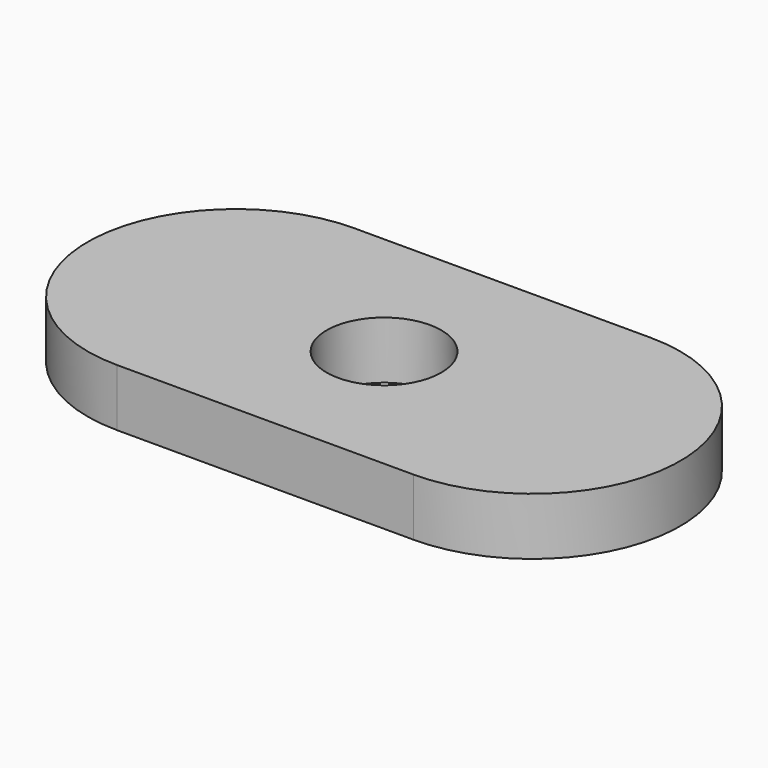
from build123d import *

# Parameters (mm, degrees)
F0_R     = 3
F1_DEPTH = 3
F2_R     = 3
F3_DEPTH = 25


with BuildPart() as f1:
    # F0 (on Top) → F1 (new body)
    with BuildSketch(Plane.XY):
        with BuildLine():
            Line((7.75, 7.75), (-7.75, 7.75))
            ThreePointArc((-7.75, 7.75), (-15.5, 0), (-7.75, -7.75))
            Line((-7.75, -7.75), (7.75, -7.75))
            ThreePointArc((7.75, -7.75), (15.5, 0), (7.75, 7.75))
        make_face()
        Circle(F0_R, mode=Mode.SUBTRACT)
        Circle(F0_R)
    extrude(amount=F1_DEPTH)

    # F2 (on face) → F3 (cut)
    with BuildSketch(Plane.XY.offset(3)):
        Circle(F2_R)
    extrude(amount=-F3_DEPTH, mode=Mode.SUBTRACT)


solid = f1.part
